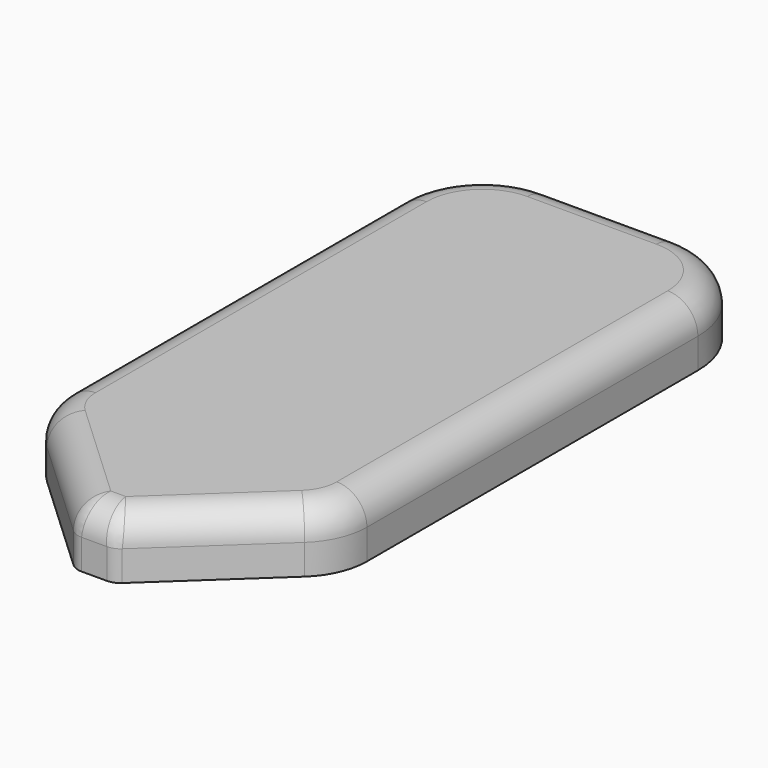
from build123d import *

# Parameters (mm, degrees)
PAD_DEPTH   = 14
FILLET001_R = 4
FILLET002_R = 16
FILLET_R    = 7


with BuildPart() as part:
    # Sketch → Pad (new body)
    with BuildSketch(Plane.XY):
        with BuildLine():
            Line((-35, -53.5), (-35, -69.5))
            Line((-35, -69.5), (-4.5, -97.94171))
            Line((-4.5, -97.94171), (4.5, -97.94171))
            Line((4.5, -97.94171), (35, -69.5))
            Line((35, -69.5), (35, -53.5))
            Line((35, 33.5), (35, -53.5))
            ThreePointArc((35, 33.5), (29.142136, 47.642136), (15, 53.5))
            Line((-15, 53.5), (15, 53.5))
            ThreePointArc((-15, 53.5), (-29.142136, 47.642136), (-35, 33.5))
            Line((-35, 33.5), (-35, -53.5))
        make_face()
    extrude(amount=PAD_DEPTH)

    # Fillet001
    fillet001_edges = [part.edges().sort_by_distance(p)[0] for p in [
        (-4.5, -97.94171, 7),
        (4.5, -97.94171, 7),
    ]]
    fillet(fillet001_edges, radius=FILLET001_R)

    # Fillet002
    fillet002_edges = [part.edges().sort_by_distance(p)[0] for p in [
        (35, -69.5, 7),
        (-35, -69.5, 7),
    ]]
    fillet(fillet002_edges, radius=FILLET002_R)

    # Fillet
    fillet_edges = [part.edges().sort_by_distance(p)[0] for p in [
        (-17.782163, -85.555893, 14),
        (-33.672961, -68.922987, 14),
        (-4.390363, -97.66338, 14),
        (-35, -58.021501, 14),
        (0, -97.94171, 14),
        (-35, -10, 14),
        (4.390363, -97.66338, 14),
        (-29.142136, 47.642136, 14),
        (17.782163, -85.555893, 14),
        (0, 53.5, 14),
        (33.672961, -68.922987, 14),
        (29.142136, 47.642136, 14),
        (35, -58.021501, 14),
        (35, -10, 14),
    ]]
    fillet(fillet_edges, radius=FILLET_R)


with BuildPart() as part_1:
    # Body104 placement: moved
    add(part.part.moved(Location((0, 0, -0.1))))


solid = part_1.part
